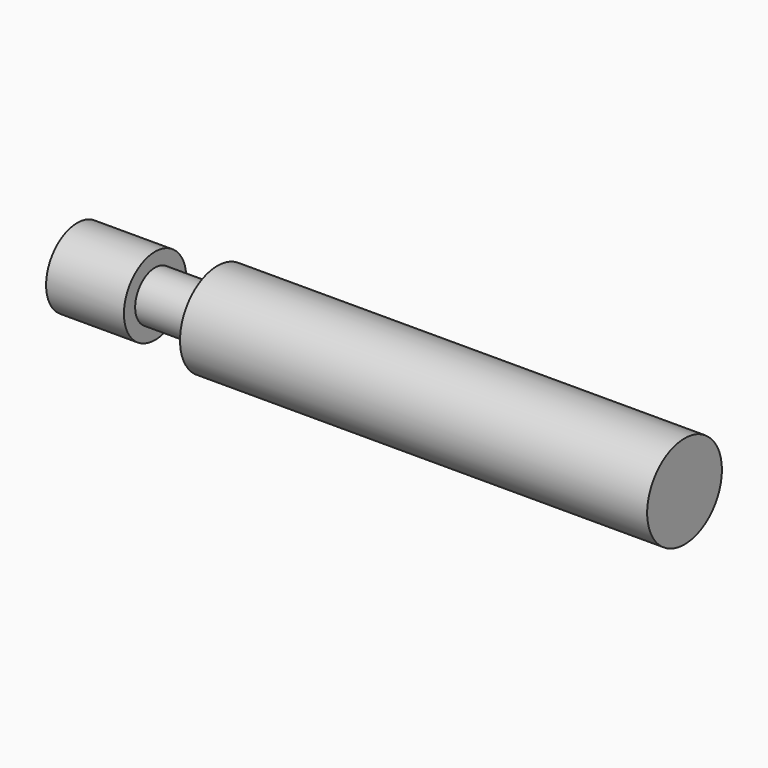
from build123d import *

# Parameters (mm, degrees)
F1_R      = 15
F3_R      = 8
F4_DEPTH  = 20
F5_R      = 12.5
F5_R_2    = 8
F6_DEPTH  = 25
F4_FACE_R = 8
F7_DEPTH  = 25


with BuildPart() as f2:
    # F2: sweep along a path in F0
    with BuildLine(Plane.XY) as f2_path:
        Line((0, 0), (-150, 0))
    # F1 (on Right) → F2 (sweep)
    with BuildSketch(Plane.YZ):
        Circle(F1_R)
    sweep(path=f2_path.line)

    # F3 (on face) → F4 (join)
    with BuildSketch(Plane(origin=(-150, 0, 0), x_dir=(0, -1, 0), z_dir=(-1, 0, 0))):
        Circle(F3_R)
    extrude(amount=F4_DEPTH)


with BuildPart() as f6:
    # F5 (on face) → F6 (new body)
    with BuildSketch(Plane(origin=(-170, 0, 0), x_dir=(0, -1, 0), z_dir=(-1, 0, 0))):
        Circle(F5_R)
        Circle(F5_R_2, mode=Mode.SUBTRACT)
    extrude(amount=F6_DEPTH)


with BuildPart() as f7:
    # F4_face (on face) → F7 (new body)
    with BuildSketch(Plane(origin=(-170, 0, 0), x_dir=(0, -1, 0), z_dir=(-1, 0, 0))):
        Circle(F4_FACE_R)
    extrude(amount=F7_DEPTH)


solid = Compound([f2.part, f6.part, f7.part])
